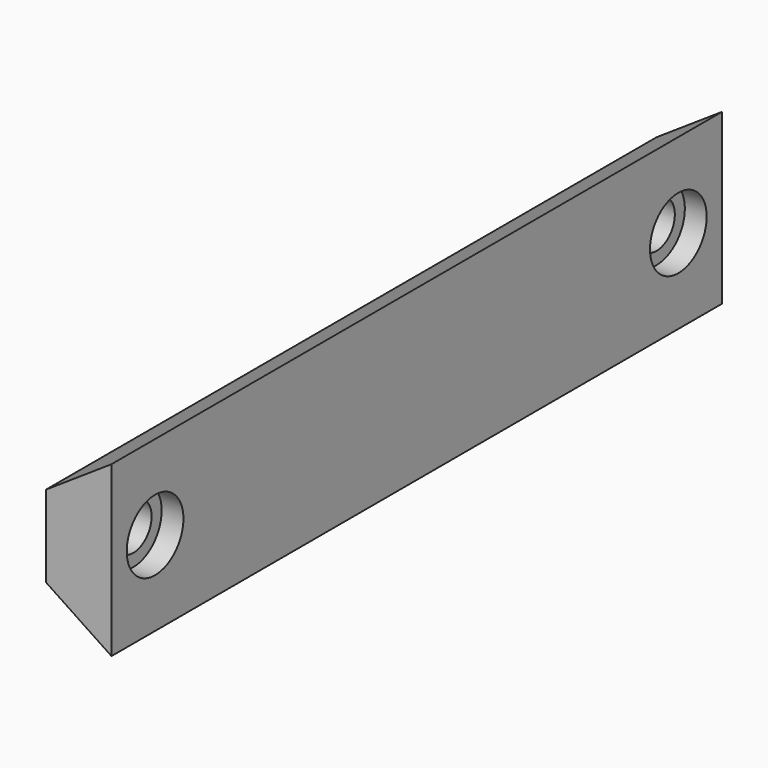
from build123d import *

# Parameters (mm, degrees)
F1_DEPTH = 70
F2_R     = 3.25
F3_DEPTH = 2
F4_R     = 2.1
F5_DEPTH = 4


with BuildPart() as f1:
    # F0 (on Front) → F1 (new body)
    with BuildSketch(Plane.XZ):
        Polygon((49.424573, 12.242154), (49.424573, 27.742154), (43.424573, 23.742154), (43.424573, 16.242154), align=None)
    extrude(amount=F1_DEPTH)

    # F2 (on face) → F3 (cut)
    with BuildSketch(Plane.YZ.offset(49.424573)):
        with Locations((-65, 19.992154)):
            Circle(F2_R)
        with Locations((-5, 19.992154)):
            Circle(F2_R)
    extrude(amount=-F3_DEPTH, mode=Mode.SUBTRACT)

    # F4 (on face) → F5 (cut)
    with BuildSketch(Plane(origin=(43.424573, 0, 0), x_dir=(0, -1, 0), z_dir=(-1, 0, 0))):
        with Locations((5, 19.992154)):
            Circle(F4_R)
        with Locations((65, 19.992154)):
            Circle(F4_R)
    extrude(amount=-F5_DEPTH, mode=Mode.SUBTRACT)


solid = f1.part
